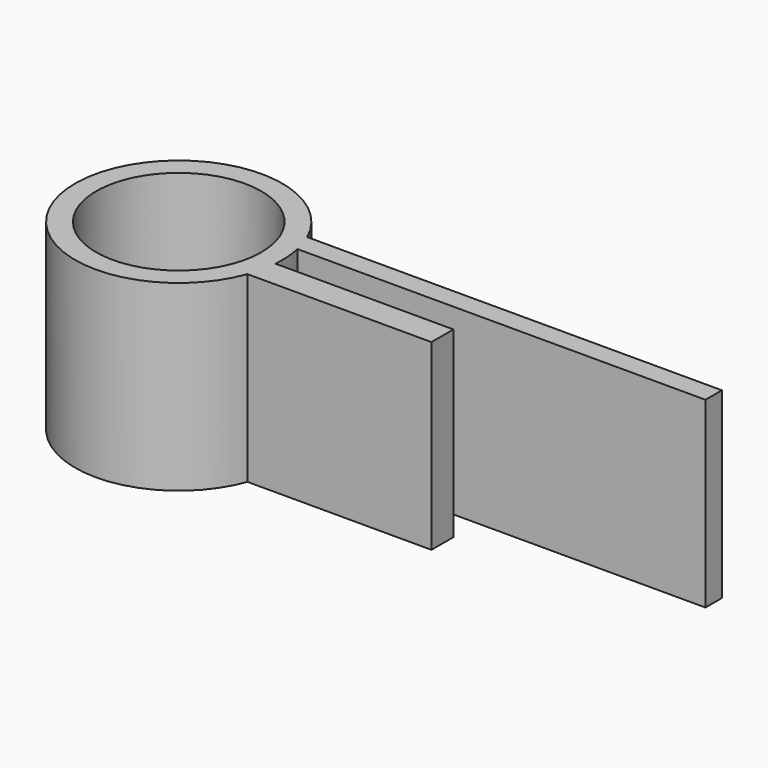
from build123d import *

# Parameters (mm, degrees)
F0_R     = 11.478071
F1_DEPTH = 25.4


with BuildPart() as f1:
    # F0 (on Top) → F1 (new body)
    with BuildSketch(Plane.XY):
        with BuildLine():
            ThreePointArc((-27.550563, 9.953851), (-27.943973, 11.405285), (-28.486714, 12.807734))
            Line((-28.486714, 12.807734), (-28.486714, 9.953851))
            Line((-28.486714, 9.953851), (-27.550563, 9.953851))
        make_face()
        with BuildLine():
            Line((-28.105401, 5.782713), (-28.105401, 1.970213))
            ThreePointArc((-28.105401, 1.970213), (-27.558955, 3.848086), (-27.272201, 5.782713))
            Line((-27.272201, 5.782713), (-28.105401, 5.782713))
        make_face()
        with BuildLine():
            ThreePointArc((-27.272201, 5.782713), (-27.558955, 3.848086), (-28.105401, 1.970213))
            Line((-28.105401, 1.970213), (-2.559561, 1.970213))
            Line((-2.559561, 1.970213), (-2.559561, 5.782713))
            Line((-2.559561, 5.782713), (-27.272201, 5.782713))
        make_face()
        with BuildLine():
            Line((29.103164, 12.807734), (-28.486714, 12.807734))
            ThreePointArc((-28.486714, 12.807734), (-27.943973, 11.405285), (-27.550563, 9.953851))
            Line((-27.550563, 9.953851), (29.103164, 9.953851))
            Line((29.103164, 9.953851), (29.103164, 12.807734))
        make_face()
        with BuildLine():
            Line((-28.486714, 9.953851), (-28.486714, 12.807734))
            ThreePointArc((-28.486714, 12.807734), (-55.997093, 6.414324), (-28.105401, 1.970213))
            Line((-28.105401, 1.970213), (-28.105401, 5.782713))
            Line((-28.105401, 5.782713), (-27.272201, 5.782713))
            ThreePointArc((-27.272201, 5.782713), (-27.238428, 6.351059), (-27.227164, 6.920296))
            ThreePointArc((-27.227164, 6.920296), (-27.308242, 8.445668), (-27.550563, 9.953851))
            Line((-27.550563, 9.953851), (-28.486714, 9.953851))
        make_face()
        with Locations((-41.616578, 6.920296)):
            Circle(F0_R, mode=Mode.SUBTRACT)
    extrude(amount=F1_DEPTH)


solid = f1.part
